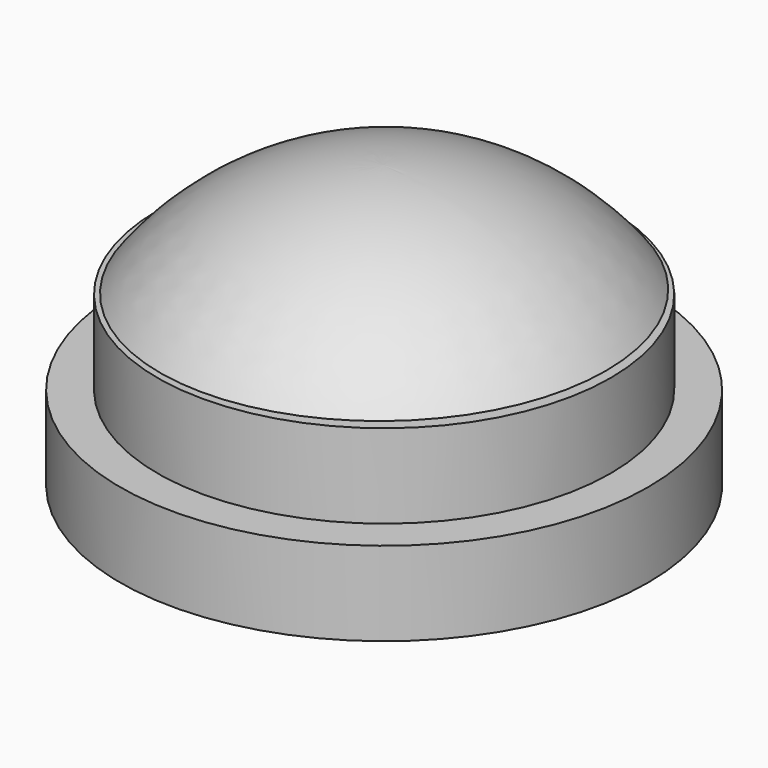
from build123d import *

# Parameters (mm, degrees)
F0_R     = 3.1413461768
F1_DEPTH = 1
F2_R     = 2.6963933938
F3_DEPTH = 1


with BuildPart() as f1:
    # F0 (on Top) → F1 (new body)
    with BuildSketch(Plane.XY):
        Circle(F0_R)
    extrude(amount=F1_DEPTH)

    # F2 (on face) → F3 (join)
    with BuildSketch(Plane.XY.offset(1)):
        Circle(F2_R)
    extrude(amount=F3_DEPTH)


with BuildPart() as f5:
    # F4 (on Front) → F5 (revolve)
    with BuildSketch(Plane.XZ):
        with BuildLine():
            ThreePointArc((2.6403267323, 2.0565023948), (1.4630648518, 3.0099781714), (-0.0139886225, 3.3466896587))
            Line((-0.0139886225, 3.3466896587), (0, 2.0284836082))
            Line((0, 2.0284836082), (2.6403267323, 2.0565023948))
        make_face()
    revolve(axis=Axis((-0.0069943113, 0, 2.6875866334), (-0.0106112659, 0, 0.9999436989)))


solid = Compound([f1.part, f5.part])
